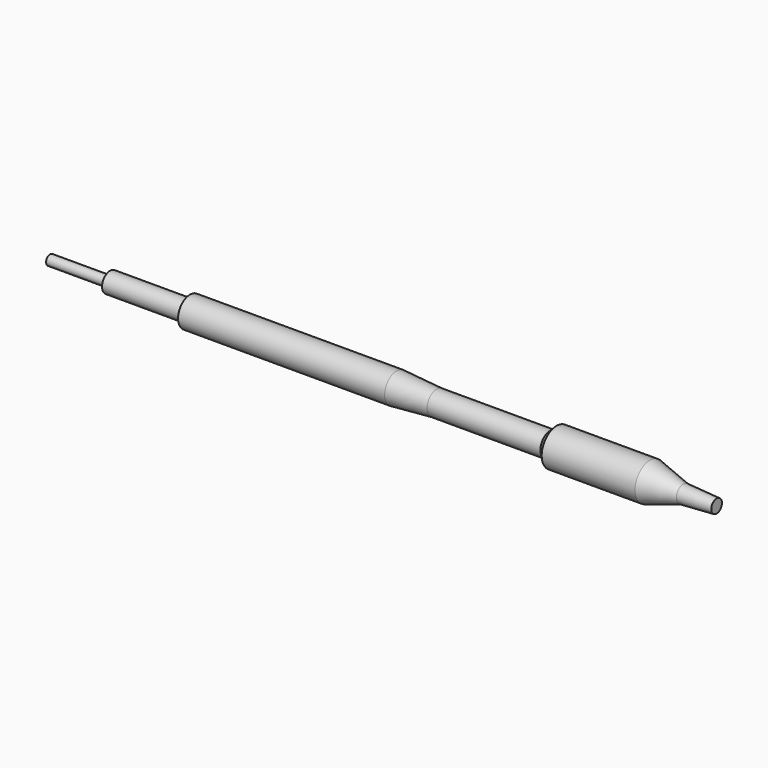
from build123d import *


with BuildPart() as part:
    # Sketch → Revolution (revolve)
    with BuildSketch(Plane.XZ):
        Polygon((0, 0), (100, 0), (100, 1), (95, 1.3), (90, 2.8), (76, 2.8), (75, 1.8), (58, 1.8), (52, 2.25), (21, 2.25), (21, 1.5), (9, 1.5), (9, 0.75), (0, 0.75), align=None)
    revolve(axis=Axis((0, 0, 0), (1, 0, 0)))


solid = part.part
